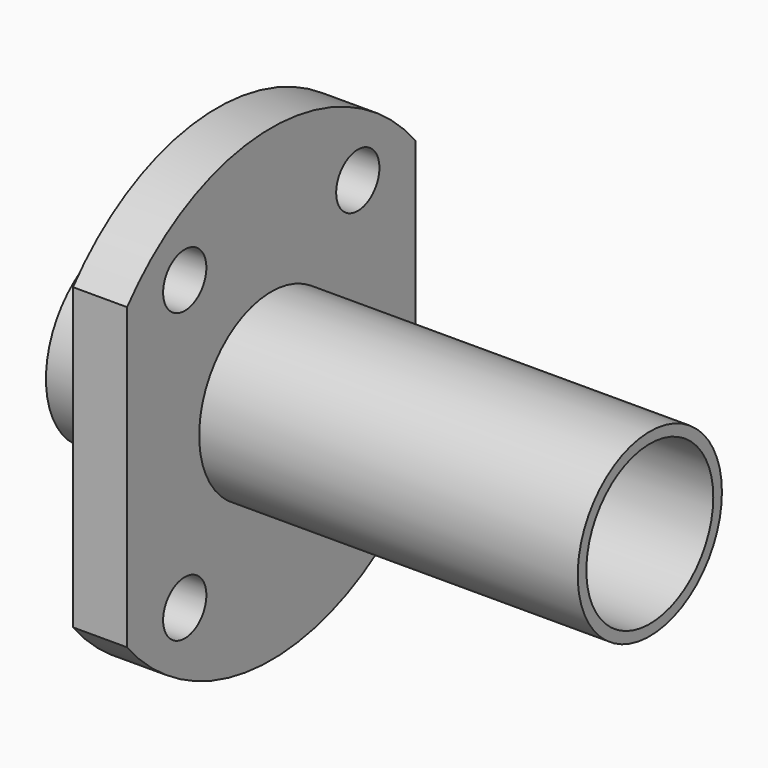
from build123d import *

# Parameters (mm, degrees)
F0_R     = 50
F0_R_2   = 44
F1_DEPTH = 30
F2_D     = 30
F3_DEPTH = 210
F4_DEPTH = 85


with BuildPart() as f1:
    # F0 (on Right) → F1 (new body)
    with BuildSketch(Plane.YZ):
        with BuildLine():
            Line((100, -83.066239), (100, 83.066239))
            ThreePointArc((100, 83.066239), (0, 130), (-100, 83.066239))
            Line((-100, 83.066239), (-100, -83.066239))
            ThreePointArc((-100, -83.066239), (0, -130), (100, -83.066239))
        make_face()
        Circle(F0_R, mode=Mode.SUBTRACT)
        Circle(F0_R)
        Circle(F0_R_2, mode=Mode.SUBTRACT)
    extrude(amount=-F1_DEPTH)

    # F2 (through all)
    with Locations(Plane.YZ):
        with Locations((-60, 80), (60, 80), (60, -80), (-60, -80)):
            Hole(F2_D / 2)

    # F0 (on Right) → F3 (join)
    with BuildSketch(Plane.YZ):
        Circle(F0_R)
        Circle(F0_R_2, mode=Mode.SUBTRACT)
    extrude(amount=F3_DEPTH)

    # F0 (on Right) → F4 (join)
    with BuildSketch(Plane.YZ):
        Circle(F0_R)
        Circle(F0_R_2, mode=Mode.SUBTRACT)
    extrude(amount=-F4_DEPTH)


solid = f1.part
